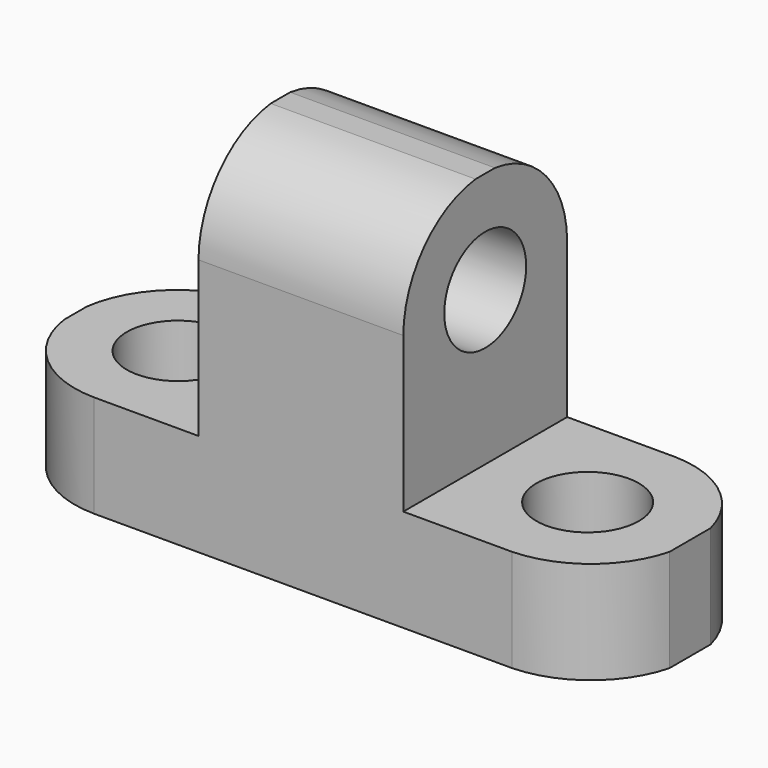
from build123d import *

# Parameters (mm, degrees)
F1_DEPTH = 25.4
F2_R     = 6.35
F3_DEPTH = 25.4
F4_R     = 6.35
F5_DEPTH = 12.7
F6_R     = 6.35
F7_DEPTH = 12.7


with BuildPart() as f1:
    # F0 (on Front) → F1 (new body)
    with BuildSketch(Plane.XZ):
        Polygon((0, 12.7), (0, 0), (76.2, 0), (76.2, 12.7), (50.8, 12.7), (50.8, 44.45), (25.4, 44.45), (25.4, 12.7), align=None)
    extrude(amount=F1_DEPTH)

    # F2 (on face) → F3 (cut)
    with BuildSketch(Plane.YZ.offset(50.8)):
        with Locations((-12.7, 31.75)):
            Circle(F2_R)
        with BuildLine():
            ThreePointArc((-11.1926886687, 44.45), (-3.231292005, 40.303582652), (0, 31.9288966496))
            Line((0, 31.9288966496), (0, 44.45))
            Line((0, 44.45), (-11.1926886687, 44.45))
        make_face()
        with BuildLine():
            ThreePointArc((-25.4, 31.9288966496), (-22.168707995, 40.303582652), (-14.2073113313, 44.45))
            Line((-14.2073113313, 44.45), (-25.4, 44.45))
            Line((-25.4, 44.45), (-25.4, 31.9288966496))
        make_face()
    extrude(amount=-F3_DEPTH, mode=Mode.SUBTRACT)

    # F4 (on face) → F5 (cut)
    with BuildSketch(Plane.XY.offset(12.7)):
        with Locations((63.5, -12.7)):
            Circle(F4_R)
        with BuildLine():
            ThreePointArc((64.3000455197, 0), (71.8337545006, -2.7749851952), (76.2, -9.512433828))
            Line((76.2, -9.512433828), (76.2, 0))
            Line((76.2, 0), (64.3000455197, 0))
        make_face()
        with BuildLine():
            ThreePointArc((76.2, -15.887566172), (71.8337545006, -22.6250148048), (64.3000455197, -25.4))
            Line((64.3000455197, -25.4), (76.2, -25.4))
            Line((76.2, -25.4), (76.2, -15.887566172))
        make_face()
    extrude(amount=-F5_DEPTH, mode=Mode.SUBTRACT)

    # F6 (on face) → F7 (cut)
    with BuildSketch(Plane.XY.offset(12.7)):
        with Locations((12.7, -12.7)):
            Circle(F6_R)
        with BuildLine():
            ThreePointArc((0, -10.9318505954), (4.1984404998, -3.1550374284), (12.4538305262, 0))
            Line((12.4538305262, 0), (0, 0))
            Line((0, 0), (0, -10.9318505954))
        make_face()
        with BuildLine():
            ThreePointArc((12.4538305262, -25.4), (4.1984404998, -22.2449625716), (0, -14.4681494046))
            Line((0, -14.4681494046), (0, -25.4))
            Line((0, -25.4), (12.4538305262, -25.4))
        make_face()
    extrude(amount=-F7_DEPTH, mode=Mode.SUBTRACT)


solid = f1.part
